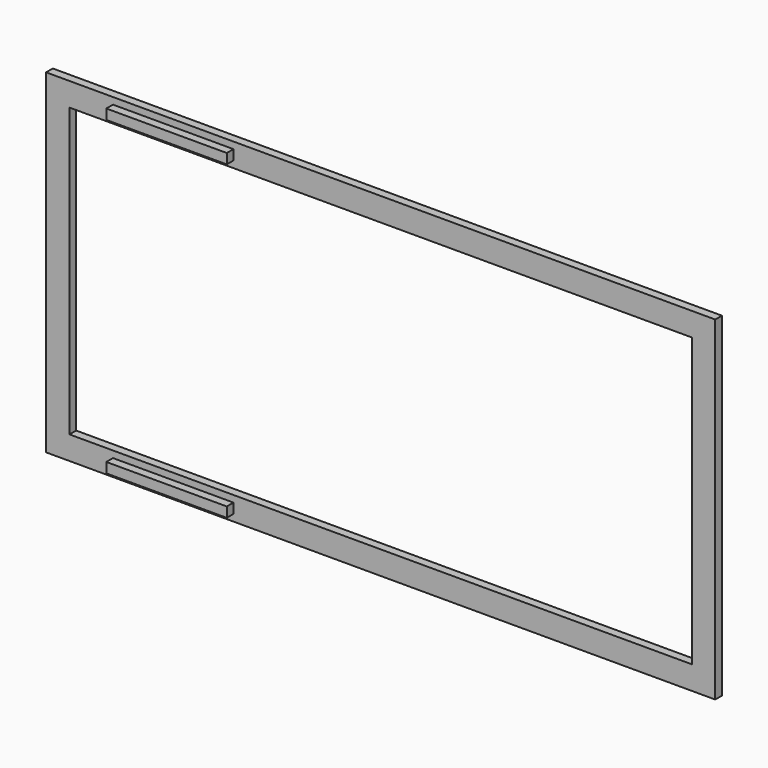
from build123d import *

# Parameters (mm, degrees)
F0_W     = 2000
F0_H     = 1000
F0_W_2   = 1860
F0_H_2   = 860
F1_DEPTH = 25
F2_W     = 360
F2_H     = 30
F3_DEPTH = 25
F4_SCALE = 0.4


with BuildPart() as f1:
    # F0 (on Front) → F1 (new body)
    with BuildSketch(Plane.XZ):
        with Locations((1000, -500)):
            Rectangle(F0_W, F0_H)
        with Locations((1000, -500)):
            Rectangle(F0_W_2, F0_H_2, mode=Mode.SUBTRACT)
    extrude(amount=F1_DEPTH)

    # F2 (on face) → F3 (join)
    with BuildSketch(Plane.XZ.offset(25)):
        with Locations((380, -35)):
            Rectangle(F2_W, F2_H)
        with Locations((380, -965)):
            Rectangle(F2_W, F2_H)
    extrude(amount=F3_DEPTH)


with BuildPart() as f1_1:
    # F4: moved
    add(f1.part.scale(F4_SCALE).moved(Location((1200, -15, -600))))


solid = f1_1.part
